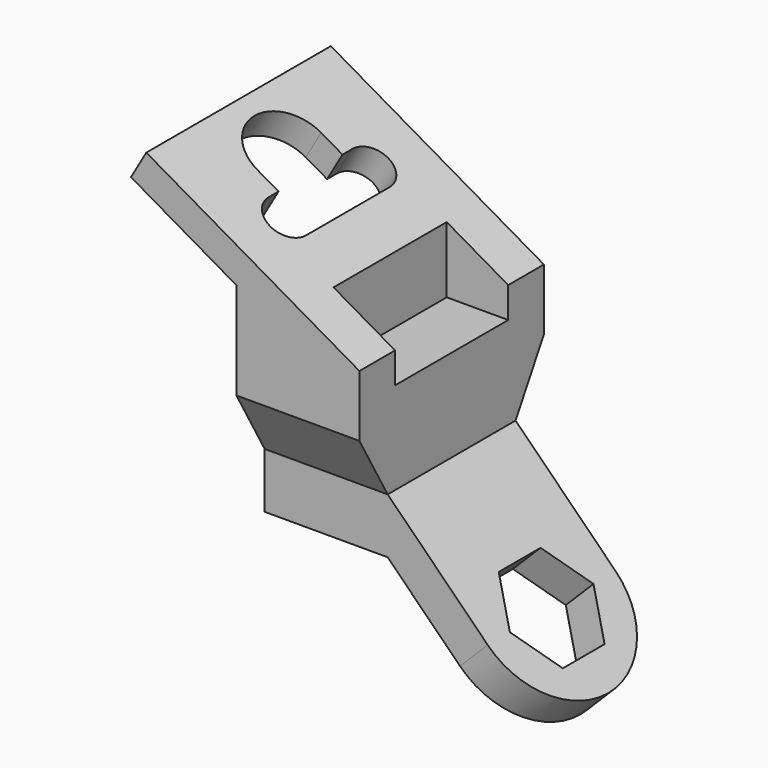
from build123d import *

# Parameters (mm, degrees)
F1_DEPTH = 37.5
F2_DEPTH = 23
F4_DEPTH = 40
F7_DEPTH = 12.7279220614
F9_DEPTH = 123.6680763069


with BuildPart() as f1:
    # F0 (on Front) → F1 (new body, symmetric)
    with BuildSketch(Plane.XZ):
        Polygon((-40, -20), (0, -20), (0, -10), (-20, -10), (-20, 11.5470053838), (-69.2820323028, 40), (-74.2820323028, 31.3397459622), (-40, 11.5470053838), align=None)
        Polygon((-20, -10), (0, -10), (0, 0), (-20, 11.5470053838), align=None)
    extrude(amount=F1_DEPTH, both=True)

    # F0 (on Front) → F2 (cut, symmetric)
    with BuildSketch(Plane.XZ):
        Polygon((-20, -10), (0, -10), (0, 0), (-20, 11.5470053838), align=None)
    extrude(amount=F2_DEPTH, both=True, mode=Mode.SUBTRACT)

    # F3 (on Right) → F4 (join)
    with BuildSketch(Plane.YZ):
        Polygon((37.5, -20), (-37.5, -20), (-26, -40), (26, -40), align=None)
        Polygon((26, -40), (-26, -40), (-26, -58), (0, -58), (26, -58), align=None)
    extrude(amount=-F4_DEPTH)

    # F6 (on line) → F7 (join, through all)
    with BuildSketch(Plane(origin=(-20, 0, -20), x_dir=(0.7071067812, 0, -0.7071067812), z_dir=(0.7071067812, 0, 0.7071067812))):
        with BuildLine():
            Line((74.2842712475, 26), (28.2842712475, 26))
            Line((28.2842712475, 26), (28.2842712475, -26))
            Line((28.2842712475, -26), (74.2842712475, -26))
            ThreePointArc((74.2842712475, -26), (100.2842712475, 0), (74.2842712475, 26))
        make_face()
        Polygon((59.5618393831, 8.5), (74.2842712475, 17), (89.0067031118, 8.5), (89.0067031118, -8.5), (74.2842712475, -17), (59.5618393831, -8.5), align=None, mode=Mode.SUBTRACT)
    extrude(amount=-F7_DEPTH)

    # F8 (on face) → F9 (cut, through all)
    with BuildSketch(Plane(origin=(0, 0, 0), x_dir=(0.8660254038, 0, -0.5), z_dir=(0.5, 0, 0.8660254038))):
        with BuildLine():
            ThreePointArc((-53, -17), (-46, -24), (-39, -17))
            Line((-39, -17), (-39, 17))
            ThreePointArc((-39, 17), (-46, 24), (-53, 17))
            Line((-53, 17), (-53, 13))
            Line((-53, 13), (-61, 13))
            ThreePointArc((-61, 13), (-74, 0), (-61, -13))
            Line((-61, -13), (-53, -13))
            Line((-53, -13), (-53, -17))
        make_face()
    extrude(amount=-F9_DEPTH, mode=Mode.SUBTRACT)


solid = f1.part
